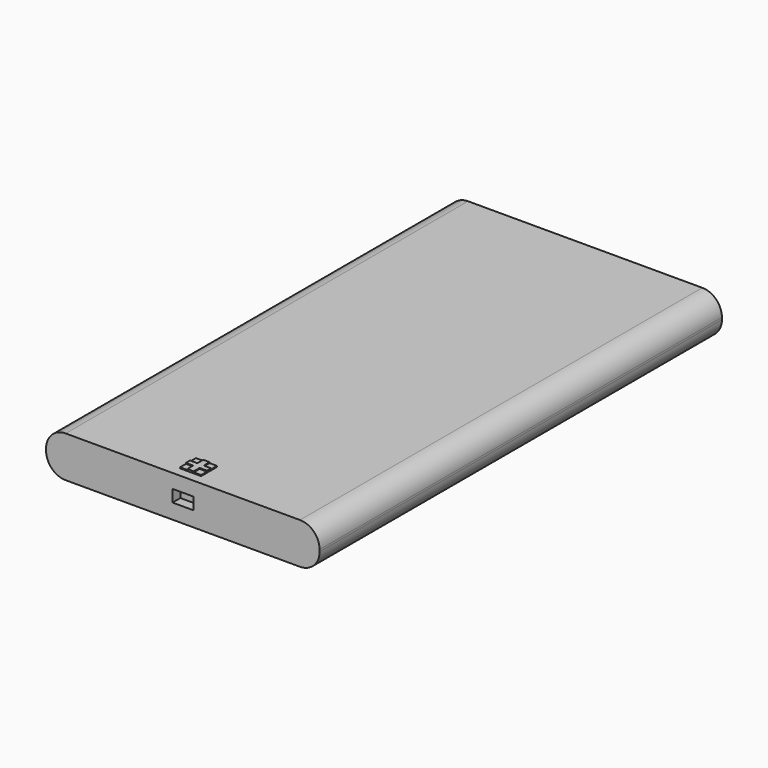
from build123d import *

# Parameters (mm, degrees)
F0_W      = 70.866
F0_H      = 130.302
F1_DEPTH  = 10.668
F2_R      = 5.08
F3_W      = 3.556
F3_H      = 3.128736
F4_DEPTH  = 2.54
F4_FACE_W = 2.54
F4_FACE_H = 3.128736
F5_DEPTH  = 2.053641
F6_R      = 1.75
F7_DEPTH  = 5.334
F8_W      = 1.8695
F8_H      = 3.128736
F9_DEPTH  = 2.54
F10_W     = 1.905
F10_H     = 1.905
F11_DEPTH = 0.254
F12_DEPTH = 0.4826


with BuildPart() as f1:
    # F0 (on Top) → F1 (new body)
    with BuildSketch(Plane.XY):
        with Locations((-48.638468, -11.206365)):
            Rectangle(F0_W, F0_H)
    extrude(amount=F1_DEPTH)

    # F2
    f2_edges = [f1.edges().sort_by_distance(p)[0] for p in [
        (-13.205468, -11.206365, 10.668),
        (-13.205468, -11.206365, 0),
        (-84.071468, -11.206365, 0),
        (-84.071468, -11.206365, 10.668),
    ]]
    fillet(f2_edges, radius=F2_R)

    # F3 (on face) → F4 (cut)
    with BuildSketch(Plane.XZ.offset(76.357365)):
        with Locations((-51.39454, 5.471042)):
            Rectangle(F3_W, F3_H)
        with Locations((-45.784899, 5.471042)):
            Rectangle(F3_W, F3_H)
    extrude(amount=-F4_DEPTH, mode=Mode.SUBTRACT)

    # F4_face (on face) → F5 (cut, through all)
    with BuildSketch(Plane(origin=(-47.562899, -75.087365, 5.471042), x_dir=(0, 1, 0), z_dir=(1, 0, 0))):
        Rectangle(F4_FACE_W, F4_FACE_H)
    extrude(amount=-F5_DEPTH, mode=Mode.SUBTRACT)

    # F6 (on face) → F7 (cut)
    with BuildSketch(Plane(origin=(0, 53.944635, 0), x_dir=(-1, 0, 0), z_dir=(0, 1, 0))):
        with Locations((21.710483, 5.5652)):
            Circle(F6_R)
    extrude(amount=-F7_DEPTH, mode=Mode.SUBTRACT)

    # F8 (on face) → F9 (join, through all)
    with BuildSketch(Plane.XZ.offset(73.817365)):
        with Locations((-52.23779, 5.471042)):
            Rectangle(F8_W, F8_H)
        with Locations((-44.941649, 5.471042)):
            Rectangle(F8_W, F8_H)
    extrude(amount=F9_DEPTH)

    # F10 (on face) → F11 (join)
    with BuildSketch(Plane.XY.offset(10.668)):
        with Locations((-50.41425, -69.658694)):
            Rectangle(F10_W, F10_H)
        with Locations((-50.41425, -72.896037)):
            Rectangle(F10_W, F10_H)
        with Locations((-46.862685, -72.896037)):
            Rectangle(F10_W, F10_H)
        with Locations((-46.862685, -69.658694)):
            Rectangle(F10_W, F10_H)
    extrude(amount=F11_DEPTH)

    # F10 (on face) → F12 (join)
    with BuildSketch(Plane.XY.offset(10.668)):
        Polygon((-49.46175, -68.706194), (-49.46175, -70.611194), (-51.36675, -70.611194), (-51.36675, -71.943537), (-49.46175, -71.943537), (-49.46175, -73.848537), (-47.815185, -73.848537), (-47.815185, -71.943537), (-45.910185, -71.943537), (-45.910185, -70.611194), (-47.815185, -70.611194), (-47.815185, -68.706194), align=None)
    extrude(amount=F12_DEPTH)


solid = f1.part
